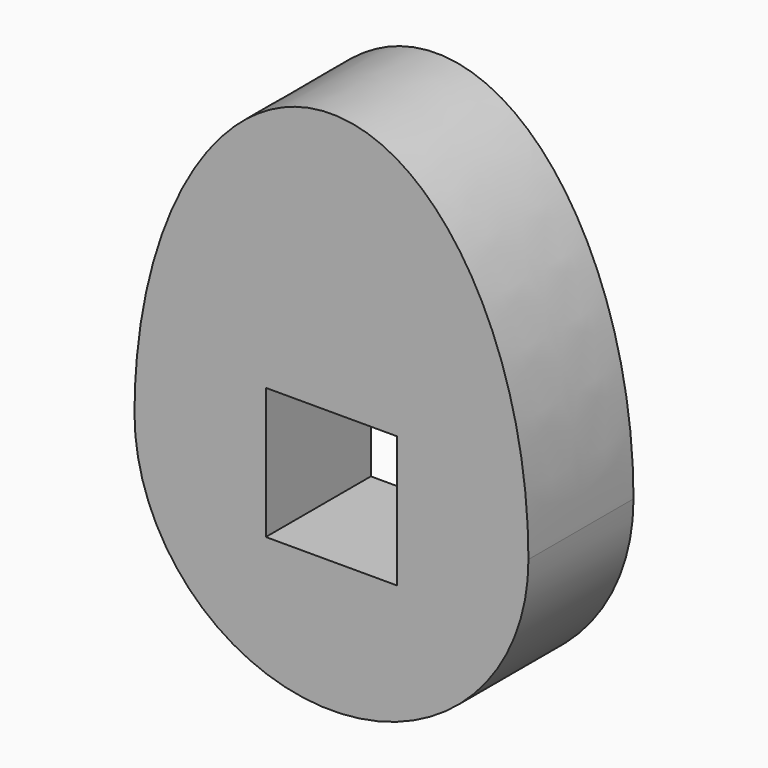
from build123d import *

# Parameters (mm, degrees)
F0_W     = 6.35
F0_H     = 6.35
F1_DEPTH = 6.35


with BuildPart() as f1:
    # F0 (on Front) → F1 (new body)
    with BuildSketch(Plane.XZ):
        with BuildLine():
            ThreePointArc((-9.525, 0), (0, 9.525), (9.525, 0))
            add(Edge.make_bspline(
                [(9.525, 0), (9.525, 15.875), (0, 15.875), (-9.525, 15.875), (-9.525, 0)],
                knots=[1.570796, 1.570796, 1.570796, 3.141593, 3.141593, 4.712389, 4.712389, 4.712389], degree=2, weights=[1, 0.707107, 1, 0.707107, 1]))
        make_face()
        with BuildLine():
            ThreePointArc((-9.525, 0), (0, -9.525), (9.525, 0))
            ThreePointArc((9.525, 0), (0, 9.525), (-9.525, 0))
        make_face()
        Rectangle(F0_W, F0_H, mode=Mode.SUBTRACT)
    extrude(amount=F1_DEPTH)


solid = f1.part
